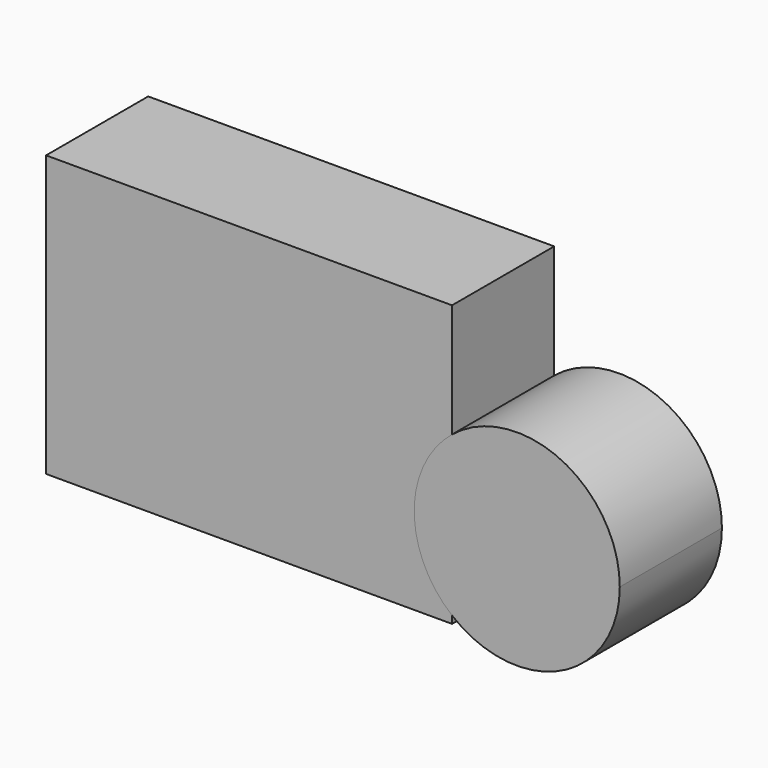
from build123d import *

# Parameters (mm, degrees)
F1_DEPTH = 25.4
F2_DEPTH = 25.4


with BuildPart() as f1:
    # F0 (on Front) → F1 (new body)
    with BuildSketch(Plane.XZ):
        with BuildLine():
            Line((-35.6837250292, 60.6476478279), (-116.4493635297, 60.6476478279))
            Line((-116.4493635297, 60.6476478279), (-116.4493635297, 4.8459344544))
            Line((-116.4493635297, 4.8459344544), (-35.6837250292, 4.8459344544))
            Line((-35.6837250292, 4.8459344544), (-35.6837250292, 6.3225624137))
            ThreePointArc((-35.6837250292, 6.3225624137), (-43.2124793122, 22.1738349646), (-35.6837250292, 38.0251075155))
            Line((-35.6837250292, 38.0251075155), (-35.6837250292, 60.6476478279))
        make_face()
    extrude(amount=F1_DEPTH)


with BuildPart() as f2:
    # F0 (on Front) → F2 (new body)
    with BuildSketch(Plane.XZ):
        with BuildLine():
            Line((-35.6837250292, 6.3225624137), (-35.6837250292, 38.0251075155))
            ThreePointArc((-35.6837250292, 38.0251075155), (-43.2124793122, 22.1738349646), (-35.6837250292, 6.3225624137))
        make_face()
        with BuildLine():
            ThreePointArc((-2.309964638, 22.1738349646), (-13.9870413504, 40.6472667258), (-35.6837250292, 38.0251075155))
            Line((-35.6837250292, 38.0251075155), (-35.6837250292, 6.3225624137))
            ThreePointArc((-35.6837250292, 6.3225624137), (-13.9870413504, 3.7004032035), (-2.309964638, 22.1738349646))
        make_face()
    extrude(amount=F2_DEPTH)


solid = Compound([f1.part, f2.part])
